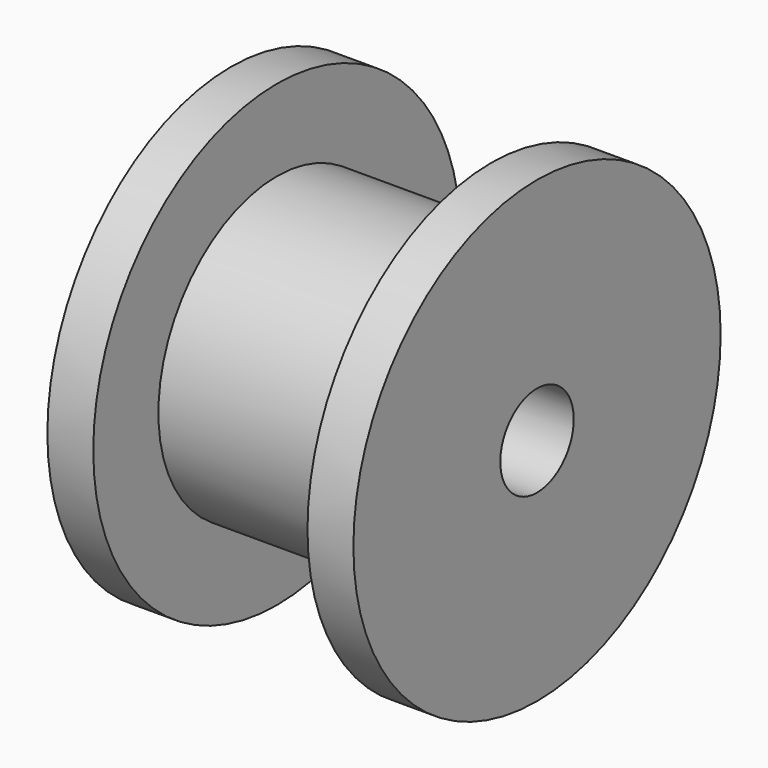
from build123d import *

# Parameters (mm, degrees)
CYLINDER003_R       = 1.5
CYLINDER003_DEPTH   = 10
CYLINDER001_R       = 7.5
CYLINDER001_DEPTH   = 1.5
CYLINDER_R          = 4.84
CYLINDER_DEPTH      = 10
CYLINDER002_R       = 7.5
CYLINDER002_DEPTH   = 1.5
CUT_PLACEMENT_ANGLE = 90


with BuildPart() as cylinder003:
    # Cylinder003 → Cylinder003 (new body)
    with BuildSketch(Plane.XY):
        Circle(CYLINDER003_R)
    extrude(amount=CYLINDER003_DEPTH)


with BuildPart() as cylinder001:
    # Cylinder001 → Cylinder001 (new body)
    with BuildSketch(Plane.XY.offset(8.5)):
        Circle(CYLINDER001_R)
    extrude(amount=CYLINDER001_DEPTH)


with BuildPart() as cylinder:
    # Cylinder → Cylinder (new body)
    with BuildSketch(Plane.XY):
        Circle(CYLINDER_R)
    extrude(amount=CYLINDER_DEPTH)


with BuildPart() as f_16_teeth_idler:
    # Cylinder002 → Cylinder002 (new body)
    with BuildSketch(Plane.XY):
        Circle(CYLINDER002_R)
    extrude(amount=CYLINDER002_DEPTH)

    # Fusion: union Cylinder001, Cylinder
    add(cylinder001.part)
    add(cylinder.part)

    # Cut: cut Cylinder003
    add(cylinder003.part, mode=Mode.SUBTRACT)


with BuildPart() as f_16_teeth_idler_1:
    # Cut placement: moved
    add(f_16_teeth_idler.part.moved(Location((-5, 0, -11))).rotate(Axis((-5, 0, -11), (0, 1, 0)), CUT_PLACEMENT_ANGLE))


solid = f_16_teeth_idler_1.part
